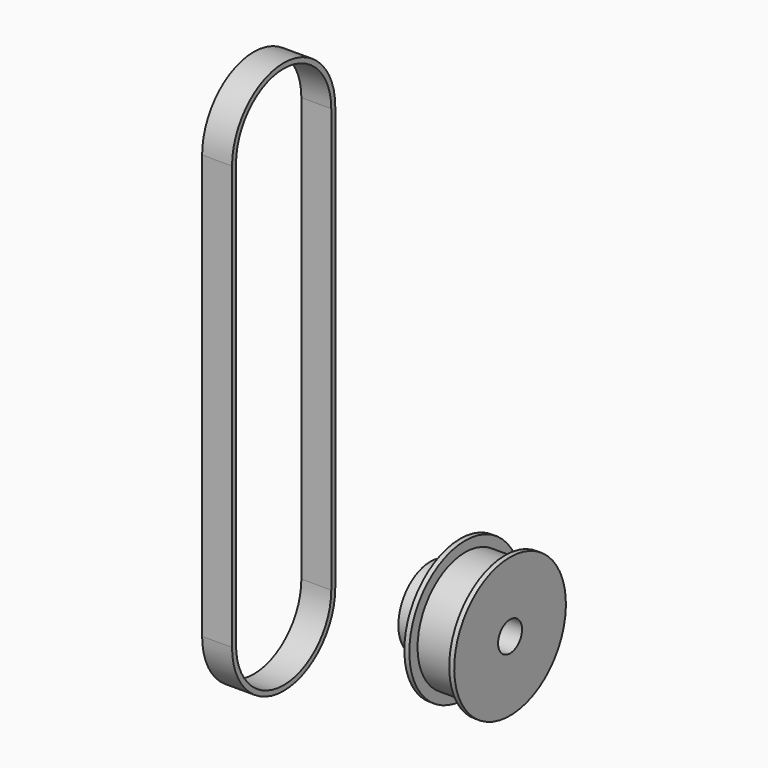
from build123d import *

# Parameters (mm, degrees)
F3_DEPTH = 6


with BuildPart() as f1:
    # F0 (on Front) → F1 (revolve)
    with BuildSketch(Plane.XZ):
        Polygon((0, 8), (0, 3), (16, 3), (16, 11.936621), (16, 14), (15, 14), (15, 11.936621), (7, 11.936621), (7, 14), (6, 14), (6, 11.936621), (6, 8), align=None)
    revolve(axis=Axis((7.60479, 0, 0), (1, 0, 0)))


with BuildPart() as f3:
    # F2 (on Right) → F3 (new body)
    with BuildSketch(Plane.YZ):
        with BuildLine():
            Line((-31.321637, 18.056431), (-31.321637, 103.056431))
            ThreePointArc((-31.321637, 103.056431), (-44.258257, 115.993052), (-57.194878, 103.056431))
            Line((-57.194878, 103.056431), (-57.194878, 18.056431))
            ThreePointArc((-57.194878, 18.056431), (-44.258257, 5.11981), (-31.321637, 18.056431))
        make_face()
        with BuildLine():
            ThreePointArc((-32.321637, 18.056431), (-44.258257, 6.11981), (-56.194878, 18.056431))
            Line((-56.194878, 18.056431), (-56.194878, 103.056431))
            ThreePointArc((-56.194878, 103.056431), (-44.258257, 114.993052), (-32.321637, 103.056431))
            Line((-32.321637, 103.056431), (-32.321637, 18.056431))
        make_face(mode=Mode.SUBTRACT)
    extrude(amount=F3_DEPTH)


solid = Compound([f1.part, f3.part])
